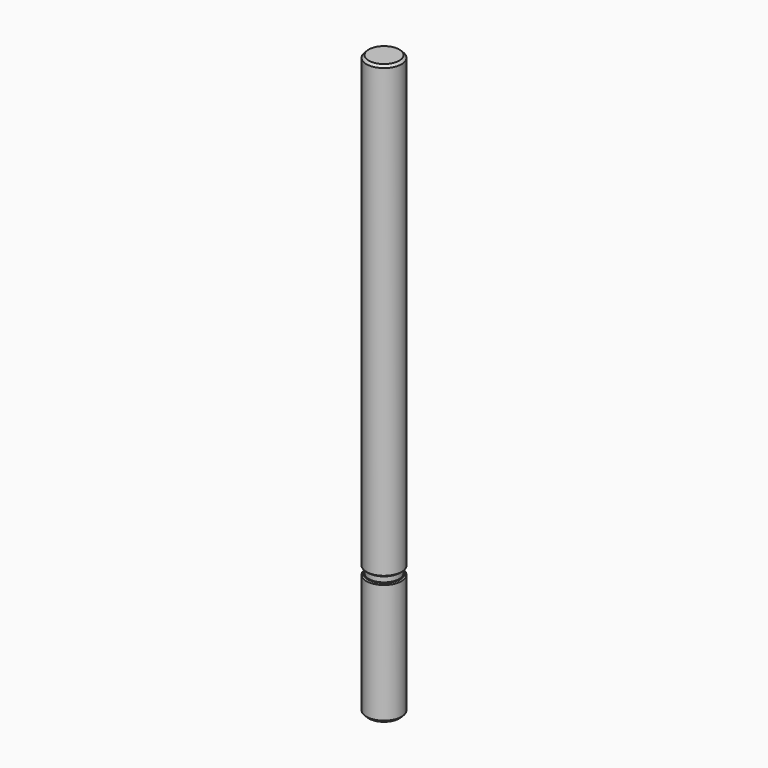
from build123d import *

# Parameters (mm, degrees)
F0_R     = 1.5
F0_R_2   = 1.3
F1_DEPTH = 38.5
F2_DEPTH = 1
F3_START = -0.5
F3_DEPTH = 0.5
F4_DEPTH = 10
F5_SIZE  = 0.2
F6_SIZE  = 0.1


with BuildPart() as f1:
    # F0 (on Top) → F1 (new body)
    with BuildSketch(Plane.XY):
        Circle(F0_R)
        Circle(F0_R_2, mode=Mode.SUBTRACT)
        Circle(F0_R_2)
    extrude(amount=F1_DEPTH)

    # F0 (on Top) → F2 (join)
    with BuildSketch(Plane.XY):
        Circle(F0_R_2)
    extrude(amount=-F2_DEPTH)

    # F0 (on Top) → F3 (join)
    with BuildSketch(Plane.XY.offset(F3_START)):
        Circle(F0_R)
        Circle(F0_R_2, mode=Mode.SUBTRACT)
    extrude(amount=-F3_DEPTH)

    # F4 (add): a face of the model
    f4_faces = [f1.faces().sort_by_distance(p)[0] for p in [
        (0, 0, -1),
    ]]
    extrude(f4_faces, amount=F4_DEPTH)

    # F5
    f5_edges = [f1.edges().sort_by_distance(p)[0] for p in [
        (-1.5, 0, 38.5),
        (-1.5, 0, -11),
    ]]
    chamfer(f5_edges, length=F5_SIZE)

    # F6
    f6_edges = [f1.edges().sort_by_distance(p)[0] for p in [
        (-1.5, 0, -0.5),
        (-1.5, 0, 0),
    ]]
    chamfer(f6_edges, length=F6_SIZE)


solid = f1.part
